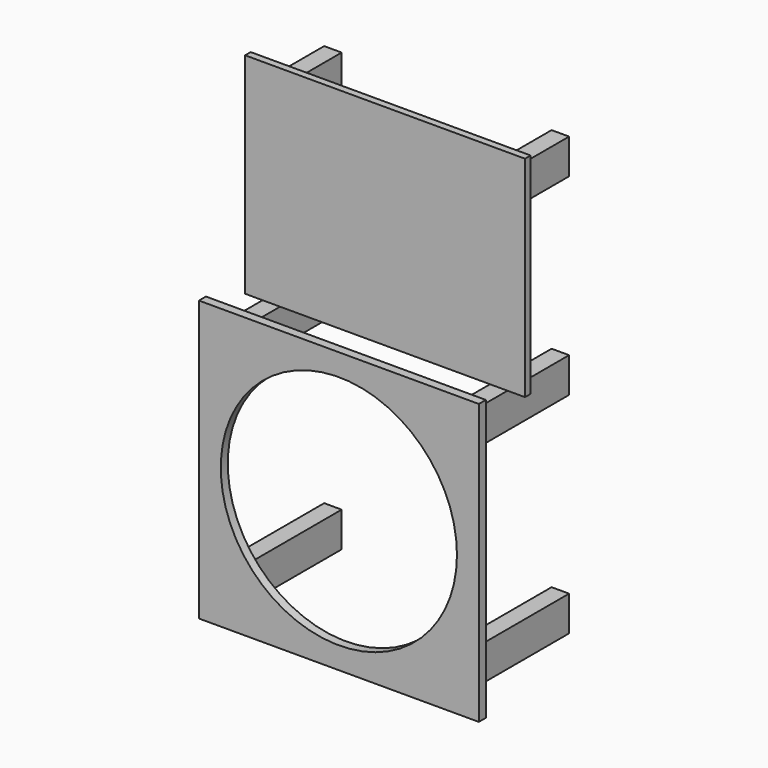
from build123d import *

# Parameters (mm, degrees)
F0_W     = 800
F0_H     = 800
F0_R     = 337.5
F1_DEPTH = 25
F2_W     = 50
F2_H     = 100
F3_DEPTH = 360
F4_W     = 50
F4_H     = 100
F5_DEPTH = 200
F6_W     = 800
F6_H     = 600
F7_DEPTH = 20


with BuildPart() as f1:
    # F0 (on Front) → F1 (new body)
    with BuildSketch(Plane.XZ):
        with Locations((400, -400)):
            Rectangle(F0_W, F0_H)
        with Locations((400, -400)):
            Circle(F0_R, mode=Mode.SUBTRACT)
    extrude(amount=F1_DEPTH)

    # F2 (on face) → F3 (join)
    with BuildSketch(Plane(origin=(0, 0, 0), x_dir=(-1, 0, 0), z_dir=(0, 1, 0))):
        with Locations((-725, -100)):
            Rectangle(F2_W, F2_H)
        with Locations((-725, -700)):
            Rectangle(F2_W, F2_H)
        with Locations((-75, -100)):
            Rectangle(F2_W, F2_H)
        with Locations((-75, -700)):
            Rectangle(F2_W, F2_H)
    extrude(amount=F3_DEPTH)


with BuildPart() as f5:
    # F4 (on face) → F5 (new body)
    with BuildSketch(Plane(origin=(0, 360, 0), x_dir=(-1, 0, 0), z_dir=(0, 1, 0))):
        with Locations((-725, 450)):
            Rectangle(F4_W, F4_H)
        with Locations((-75, 450)):
            Rectangle(F4_W, F4_H)
    extrude(amount=-F5_DEPTH)


with BuildPart() as f7:
    # F6 (on face) → F7 (new body)
    with BuildSketch(Plane.XZ.offset(-160)):
        with Locations((400, 250)):
            Rectangle(F6_W, F6_H)
    extrude(amount=F7_DEPTH)


solid = Compound([f1.part, f5.part, f7.part])
